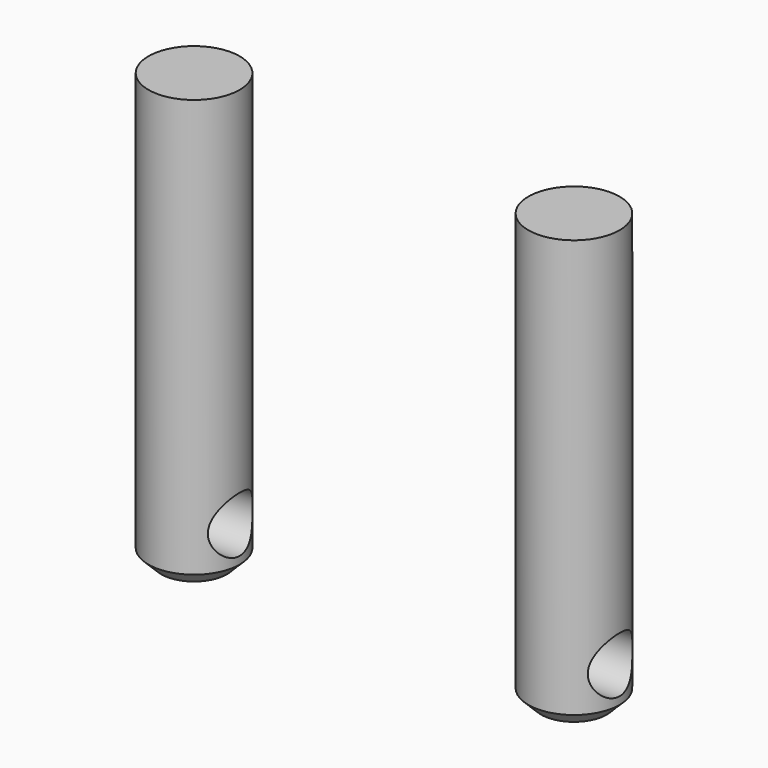
from build123d import *

# Parameters (mm, degrees)
CYLINDER006_R     = 1.1
CYLINDER006_DEPTH = 25
CYLINDER004_R     = 1.8
CYLINDER004_DEPTH = 17
CYLINDER005_R     = 1.8
CYLINDER005_DEPTH = 17
CHAMFER_SIZE      = 0.5


with BuildPart() as obj1:
    # Cylinder006 → Cylinder006 (new body)
    with BuildSketch(Plane(origin=(55, 6.25, -1.1), x_dir=(0, 0, -1), z_dir=(1, 0, 0))):
        Circle(CYLINDER006_R)
    extrude(amount=CYLINDER006_DEPTH)


with BuildPart() as cylinder004:
    # Cylinder004 → Cylinder004 (new body)
    with BuildSketch(Plane(origin=(75, 6.25, -3), x_dir=(1, 0, 0), z_dir=(0, 0, 1))):
        Circle(CYLINDER004_R)
    extrude(amount=CYLINDER004_DEPTH)


with BuildPart() as obj2:
    # Cylinder005 → Cylinder005 (new body)
    with BuildSketch(Plane(origin=(60, 6.25, -3), x_dir=(1, 0, 0), z_dir=(0, 0, 1))):
        Circle(CYLINDER005_R)
    extrude(amount=CYLINDER005_DEPTH)

    # Compound001: union Cylinder004
    add(cylinder004.part)

    # Chamfer
    chamfer_edges = [obj2.edges().sort_by_distance(p)[0] for p in [
        (58.2, 6.25, -3),
        (73.2, 6.25, -3),
    ]]
    chamfer(chamfer_edges, length=CHAMFER_SIZE)

    # Cut001: cut obj1
    add(obj1.part, mode=Mode.SUBTRACT)


solid = obj2.part
